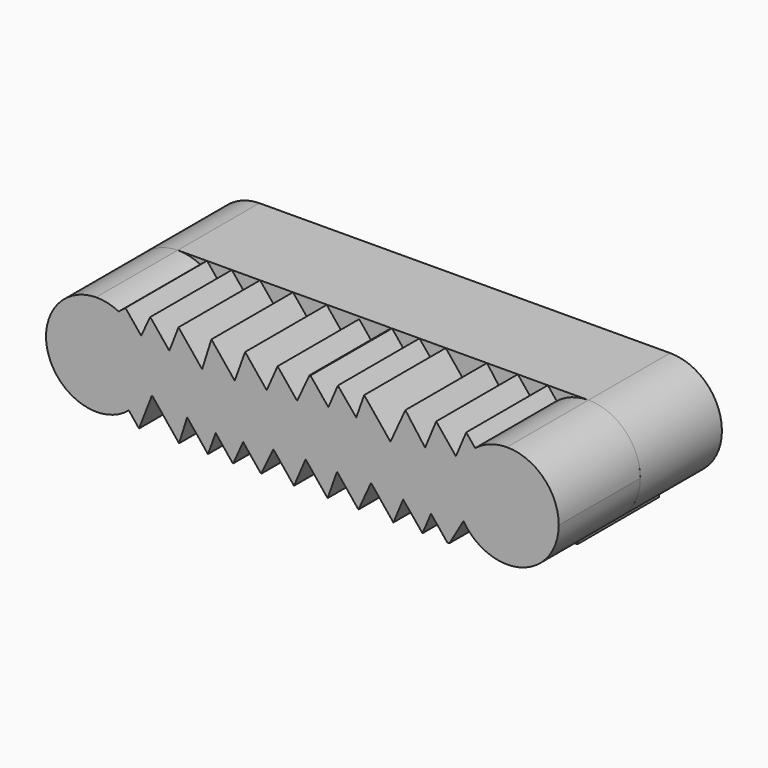
from build123d import *

# Parameters (mm, degrees)
F0_W     = 3.3822506666
F0_H     = 3.9780900193
F0_W_2   = 3.41430353
F1_DEPTH = 25.4
F3_DEPTH = 25.4


with BuildPart() as f1:
    # F0 (on Front) → F1 (new body)
    with BuildSketch(Plane.XZ):
        with BuildLine():
            Line((17.6185293709, 31.3945586435), (-84.690925819, 30.9954284879))
            ThreePointArc((-84.690925819, 30.9954284879), (-97.1724884118, 18.9474547222), (-85.9888429003, 5.6858880844))
            Line((-85.9888429003, 5.6858880844), (-77.4023757015, 5.6858880844))
            Line((-77.4023757015, 5.6858880844), (-74.0201250348, 5.6858880844))
            Line((-74.0201250348, 5.6858880844), (-3.41430353, 5.6858880844))
            Line((-3.41430353, 5.6858880844), (0, 5.6858880844))
            Line((0, 5.6858880844), (17.7188241644, 5.6858880844))
            ThreePointArc((17.7188241644, 5.6858880844), (30.5230120472, 18.5903707607), (17.6185293709, 31.3945586435))
        make_face()
        Polygon((-74.0201250348, 1.7077980651), (-77.4023757015, 1.7077980651), (-82.3802331347, 1.7077980651), (-82.3802331347, -1.1107394616), (14.8593058926, -1.1107394616), (14.8593058926, 1.7077980651), (0, 1.7077980651), (-3.41430353, 1.7077980651), align=None)
        with Locations((-75.7112503681, 3.6968430748)):
            Rectangle(F0_W, F0_H)
        with Locations((-1.707151765, 3.6968430748)):
            Rectangle(F0_W_2, F0_H)
    extrude(amount=F1_DEPTH)


with BuildPart() as f3:
    # F2 (on face) → F3 (new body)
    with BuildSketch(Plane.XZ.offset(25.4)):
        with BuildLine():
            Line((7.4777157191, 31.3549972508), (4.8971420417, 25.2733859425))
            Line((4.8971420417, 25.2733859425), (5.9934429038, 23.9184539713))
            ThreePointArc((5.9934429038, 23.9184539713), (7.5649987966, 26.4870555439), (9.6910032973, 28.6195674022))
            Line((9.6910032973, 28.6195674022), (7.4777157191, 31.3549972508))
        make_face()
        with BuildLine():
            Line((-70.7939430509, 14.0216318164), (-72.3393960707, 15.9316765669))
            ThreePointArc((-72.3393960707, 15.9316765669), (-73.8502646914, 12.0224570054), (-76.5635452821, 8.8282700972))
            Line((-76.5635452821, 8.8282700972), (-74.0201250348, 5.6858880844))
            Line((-74.0201250348, 5.6858880844), (-70.7939430509, 14.0216318164))
        make_face()
        Polygon((-71.2180261518, 31.0479890311), (-73.502197242, 26.227709607), (-68.4746691883, 20.0141246946), (-66.473640178, 25.1843429628), align=None)
        Polygon((-64.1936278631, 31.0753926486), (-66.473640178, 25.1843429628), (-60.2907627098, 17.5428472334), (-58.3071993355, 23.8002818794), align=None)
        Polygon((-66.473640178, 25.1843429628), (-68.4746691883, 20.0141246946), (-62.0316164015, 12.0510750292), (-60.2907627098, 17.5428472334), align=None)
        Polygon((-58.3071993355, 23.8002818794), (-60.2907627098, 17.5428472334), (-54.9303545076, 10.9178515748), (-52.7441106652, 16.9247908908), align=None)
        Polygon((-55.990895741, 31.107393188), (-58.3071993355, 23.8002818794), (-52.7441106652, 16.9247908908), (-50.1911272132, 23.9393865981), align=None)
        Polygon((-50.1911272132, 23.9393865981), (-52.7441106652, 16.9247908908), (-48.0993479846, 11.1842704987), (-45.186380638, 17.7539576005), align=None)
        Polygon((-47.596065493, 31.0695968577), (-50.1911272132, 23.9393865981), (-45.186380638, 17.7539576005), (-42.2254017695, 24.4319262718), align=None)
        Polygon((-42.2254017695, 24.4319262718), (-45.186380638, 17.7539576005), (-40.5691399293, 12.0474519584), (-37.4866464693, 18.5752392237), align=None)
        Polygon((-37.4866464693, 18.5752392237), (-40.5691399293, 12.0474519584), (-35.4218793232, 5.6858880844), (-32.5293636679, 12.4484712987), align=None)
        Polygon((-39.5036414146, 30.5703795293), (-42.2254017695, 24.4319262718), (-37.4866464693, 18.5752392237), (-34.6531887292, 24.5756442832), align=None)
        Polygon((-34.6531887292, 24.5756442832), (-37.4866464693, 18.5752392237), (-32.5293636679, 12.4484712987), (-29.8705353594, 18.6647030608), align=None)
        Polygon((-27.0576307947, 5.6858880844), (-24.7067181319, 12.2826766509), (-29.8705353594, 18.6647030608), (-32.5293636679, 12.4484712987), align=None)
        Polygon((-24.7067181319, 12.2826766509), (-22.0467696405, 19.7466365302), (-26.8621946159, 25.6980805906), (-29.8705353594, 18.6647030608), align=None)
        Polygon((-22.0467696405, 19.7466365302), (-19.9271756152, 25.6943324413), (-24.4959509544, 31.2302614233), (-26.8621946159, 25.6980805906), align=None)
        Polygon((-16.2328725231, 12.5611682395), (-13.6896492255, 18.1363983006), (-19.9271756152, 25.6943324413), (-22.0467696405, 19.7466365302), align=None)
        Polygon((-10.6699544422, 5.6858880844), (-8.2377734431, 11.5304273544), (-13.6896492255, 18.1363983006), (-16.2328725231, 12.5611682395), align=None)
        Polygon((-19.9271756152, 25.6943324413), (-13.6896492255, 18.1363983006), (-11.3968622992, 23.1626241166), (-17.9452165503, 31.2558171809), align=None)
        Polygon((-13.6896492255, 18.1363983006), (-8.2377734431, 11.5304273544), (-6.1141082191, 16.6336021603), (-11.3968622992, 23.1626241166), align=None)
        Polygon((-8.2377734431, 11.5304273544), (-3.41430353, 5.6858880844), (-1.2957857458, 10.678577046), (-6.1141082191, 16.6336021603), align=None)
        Polygon((-11.3968622992, 23.1626241166), (-6.1141082191, 16.6336021603), (-2.7704892434, 24.6683300094), (-7.6867772585, 31.2958374553), align=None)
        Polygon((-2.7704892434, 24.6683300094), (1.9437611458, 18.3131837161), (4.8971420417, 25.2733859425), (0, 31.325825149), align=None)
        Polygon((-68.4746691883, 20.0141246946), (-70.7939430509, 14.0216318164), (-64.049336507, 5.6858880844), (-62.0316164015, 12.0510750292), align=None)
        with BuildLine():
            ThreePointArc((-74.0201250348, 25.134728134), (-72.2906003999, 20.6955873172), (-72.3393960707, 15.9316765669))
            Line((-72.3393960707, 15.9316765669), (-70.7939430509, 14.0216318164))
            Line((-70.7939430509, 14.0216318164), (-68.4746691883, 20.0141246946))
            Line((-68.4746691883, 20.0141246946), (-73.502197242, 26.227709607))
            Line((-73.502197242, 26.227709607), (-74.0201250348, 25.134728134))
        make_face()
        Polygon((-77.4023757015, 31.0479890311), (-77.4323383065, 31.0237457256), (-77.3829159918, 31.0239385322), align=None)
        with BuildLine():
            Line((4.8971420417, 25.2733859425), (1.9437611458, 18.3131837161))
            Line((1.9437611458, 18.3131837161), (6.5135129633, 12.1528318198))
            ThreePointArc((6.5135129633, 12.1528318198), (6.6500466739, 11.9200843098), (6.7914358382, 11.6902540208))
            ThreePointArc((6.7914358382, 11.6902540208), (11.4783947736, 7.2744850804), (17.7188241644, 5.6858880844))
            ThreePointArc((17.7188241644, 5.6858880844), (26.7581335787, 9.4507665529), (30.5230120472, 18.4900759672))
            ThreePointArc((30.5230120472, 18.4900759672), (26.7581335787, 27.629680175), (17.6185293709, 31.3945586435))
            ThreePointArc((17.6185293709, 31.3945586435), (13.4217224395, 30.6728170345), (9.6910032973, 28.6195674022))
            ThreePointArc((9.6910032973, 28.6195674022), (7.5649987966, 26.4870555439), (5.9934429038, 23.9184539713))
            Line((5.9934429038, 23.9184539713), (4.8971420417, 25.2733859425))
        make_face()
        with BuildLine():
            ThreePointArc((-79.0755543994, 29.6941887755), (-76.2329194186, 27.7636351337), (-74.0201250348, 25.134728134))
            Line((-74.0201250348, 25.134728134), (-73.502197242, 26.227709607))
            Line((-73.502197242, 26.227709607), (-77.3829159918, 31.0239385322))
            Line((-77.3829159918, 31.0239385322), (-77.4323383065, 31.0237457256))
            Line((-77.4323383065, 31.0237457256), (-79.0755543994, 29.6941887755))
        make_face()
        with BuildLine():
            Line((4.8971420417, 25.2733859425), (1.9437611458, 18.3131837161))
            Line((1.9437611458, 18.3131837161), (6.5135129633, 12.1528318198))
            ThreePointArc((6.5135129633, 12.1528318198), (6.6500466739, 11.9200843098), (6.7914358382, 11.6902540208))
            ThreePointArc((6.7914358382, 11.6902540208), (11.4783947736, 7.2744850804), (17.7188241644, 5.6858880844))
            ThreePointArc((17.7188241644, 5.6858880844), (26.7581335787, 9.4507665529), (30.5230120472, 18.4900759672))
            ThreePointArc((30.5230120472, 18.4900759672), (26.7581335787, 27.629680175), (17.6185293709, 31.3945586435))
            ThreePointArc((17.6185293709, 31.3945586435), (13.4217224395, 30.6728170345), (9.6910032973, 28.6195674022))
            ThreePointArc((9.6910032973, 28.6195674022), (7.5649987966, 26.4870555439), (5.9934429038, 23.9184539713))
            Line((5.9934429038, 23.9184539713), (4.8971420417, 25.2733859425))
        make_face()
        with BuildLine():
            ThreePointArc((-76.5635452821, 8.8282700972), (-73.8502646914, 12.0224570054), (-72.3393960707, 15.9316765669))
            ThreePointArc((-72.3393960707, 15.9316765669), (-72.2906003999, 20.6955873172), (-74.0201250348, 25.134728134))
            ThreePointArc((-74.0201250348, 25.134728134), (-76.2329194186, 27.7636351337), (-79.0755543994, 29.6941887755))
            ThreePointArc((-79.0755543994, 29.6941887755), (-81.8075563521, 30.6714144079), (-84.690925819, 30.9954284879))
            ThreePointArc((-84.690925819, 30.9954284879), (-93.7656968448, 26.9708868998), (-97.1724884118, 17.6466080867))
            ThreePointArc((-97.1724884118, 17.6466080867), (-89.5811921329, 6.8965985351), (-76.5635452821, 8.8282700972))
        make_face()
        Polygon((-60.2907627098, 17.5428472334), (-62.0316164015, 12.0510750292), (-56.8814243009, 5.6858880844), (-56.83454354, 5.6858880844), (-54.9303545076, 10.9178515748), align=None)
        Polygon((-52.7441106652, 16.9247908908), (-54.9303545076, 10.9178515748), (-50.6970747512, 5.6858880844), (-50.537304037, 5.6858880844), (-48.0993479846, 11.1842704987), align=None)
        Polygon((-45.186380638, 17.7539576005), (-48.0993479846, 11.1842704987), (-43.6505036817, 5.6858880844), (-43.5731408625, 5.6858880844), (-40.5691399293, 12.0474519584), align=None)
        with BuildLine():
            Line((1.9437611458, 18.3131837161), (-1.2957857458, 10.678577046))
            Line((-1.2957857458, 10.678577046), (2.743892503, 5.6858880844))
            Line((2.743892503, 5.6858880844), (3.2997857527, 5.6858880844))
            Line((3.2997857527, 5.6858880844), (6.7914358382, 11.6902540208))
            ThreePointArc((6.7914358382, 11.6902540208), (6.6500466739, 11.9200843098), (6.5135129633, 12.1528318198))
            Line((6.5135129633, 12.1528318198), (1.9437611458, 18.3131837161))
        make_face()
        Polygon((-6.1141082191, 16.6336021603), (-1.2957857458, 10.678577046), (1.9437611458, 18.3131837161), (-2.7704892434, 24.6683300094), align=None)
        Polygon((-19.3691328168, 5.6858880844), (-16.2328725231, 12.5611682395), (-22.0467696405, 19.7466365302), (-24.7067181319, 12.2826766509), align=None)
        Polygon((-29.8705353594, 18.6647030608), (-26.8621946159, 25.6980805906), (-31.3168554081, 31.2036516769), (-31.5237513565, 31.2028445334), (-34.6531887292, 24.5756442832), align=None)
    extrude(amount=F3_DEPTH)


solid = Compound([f1.part, f3.part])
